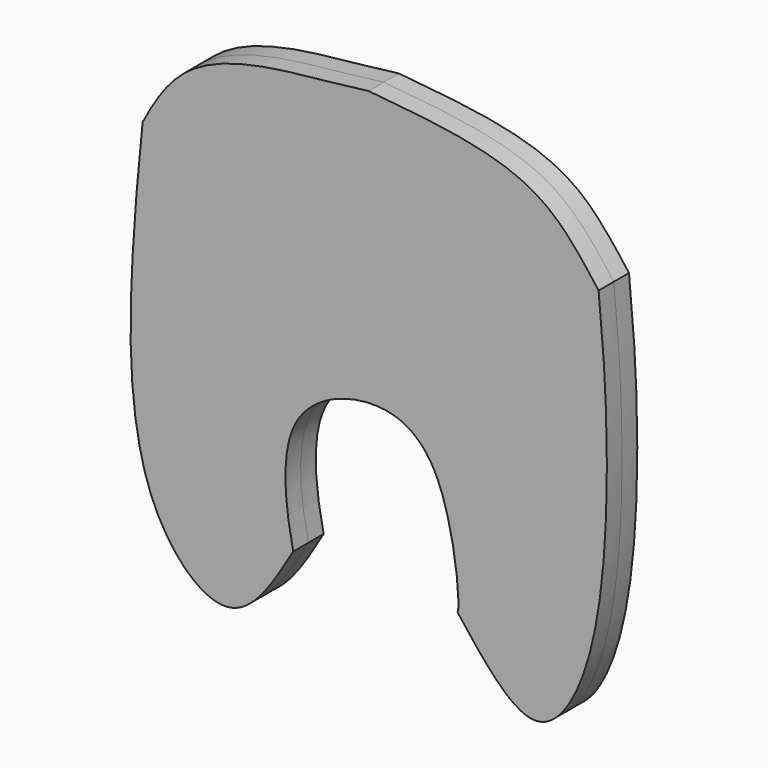
from build123d import *

# Parameters (mm, degrees)
F1_DEPTH = 6.35


with BuildPart() as f1:
    # F0 (on Front) → F1 (new body, symmetric)
    with BuildSketch(Plane.XZ):
        with BuildLine():
            add(Edge.make_bspline(
                [(-75.4921287298, 37.5578589737), (-76.6170850867, 26.516359751), (-79.3046661768, 0.1376257352), (-81.593561187, -72.25420499), (-45.3096589694, -106.5408329997), (-31.7861264568, -83.652591086), (-25.1596532762, -72.4374502897)],
                knots=[0, 0, 0, 0, 0.2344061229, 0.5600088033, 0.7844061926, 1, 1, 1, 1], degree=3))
            add(Edge.make_bspline(
                [(-25.1596532762, -72.4374502897), (-27.77456204, -60.2224833855), (-31.541583875, -30.8955744763), (0.6279793592, -16.5131330508), (27.2473390153, -27.7253136549), (30.9129416013, -70.9050207805), (29.7484043986, -72.4374502897)],
                knots=[0, 0, 0, 0, 0.2631781381, 0.4880065616, 0.7066611501, 0.9721223261, 0.9721223261, 0.9721223261, 0.9721223261], degree=3))
            add(Edge.make_bspline(
                [(76.9078712702, 37.5578589737), (77.9651395469, 26.49012432), (80.4916599964, 0.041910043), (79.2329421017, -70.1974133528), (56.1577827004, -106.6605096403), (38.8127355164, -84.1836238753), (29.7484043986, -72.4374502897)],
                knots=[0, 0, 0, 0, 0.2360967112, 0.5641928183, 0.7722519543, 1, 1, 1, 1], degree=3))
            add(Edge.make_bspline(
                [(0, 71.2657347322), (12.3528519136, 70.1268204318), (35.2113913621, 68.0192975987), (60.8258622585, 58.9292038504), (71.5443535326, 44.685425389), (76.9078712702, 37.5578589737)],
                knots=[0, 0, 0, 0, 0.3700564934, 0.6847771683, 1, 1, 1, 1], degree=3))
            add(Edge.make_bspline(
                [(0, 71.2657347322), (-12.6942690053, 69.4932034843), (-36.2570772434, 68.2779147784), (-62.8741972953, 59.0881116504), (-71.4880085988, 45.15374106), (-75.4921287298, 37.5578589737)],
                knots=[0, 0, 0, 0, 0.3778789493, 0.696061045, 1, 1, 1, 1], degree=3))
        make_face()
    extrude(amount=F1_DEPTH, both=True)


solid = f1.part
